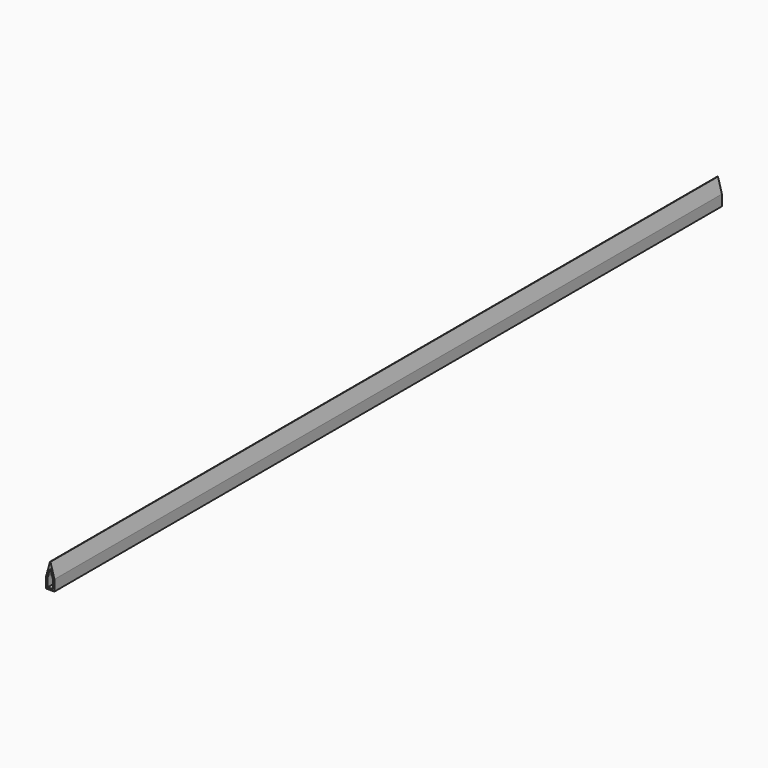
from build123d import *

# Parameters (mm, degrees)
PAD_DEPTH = 1000


with BuildPart() as part:
    # Sketch → Pad (new body)
    with BuildSketch(Plane.XZ):
        with BuildLine():
            Line((0, 0), (5, 0))
            Line((5, 0), (5, 13))
            Line((5, 13), (0.288833, 29.781088))
            ThreePointArc((0.288833, 29.781088), (0.181209, 29.939088), (0, 30))
            Line((0, 22.336099), (0, 30))
            ThreePointArc((0.481389, 21.971245), (0.302016, 22.234579), (0, 22.336099))
            Line((0.481389, 21.971245), (3, 13))
            Line((3, 13), (3, 2))
            Line((3, 2), (0, 2))
            Line((0, 2), (0, 0))
        make_face()
    pad = extrude(amount=-PAD_DEPTH)

    # Mirrored: Pad across Sketch V_Axis
    add(pad.mirror(Plane(origin=(0, 0, 0), x_dir=(0, -1, 0), z_dir=(1, 0, 0))))


solid = part.part
